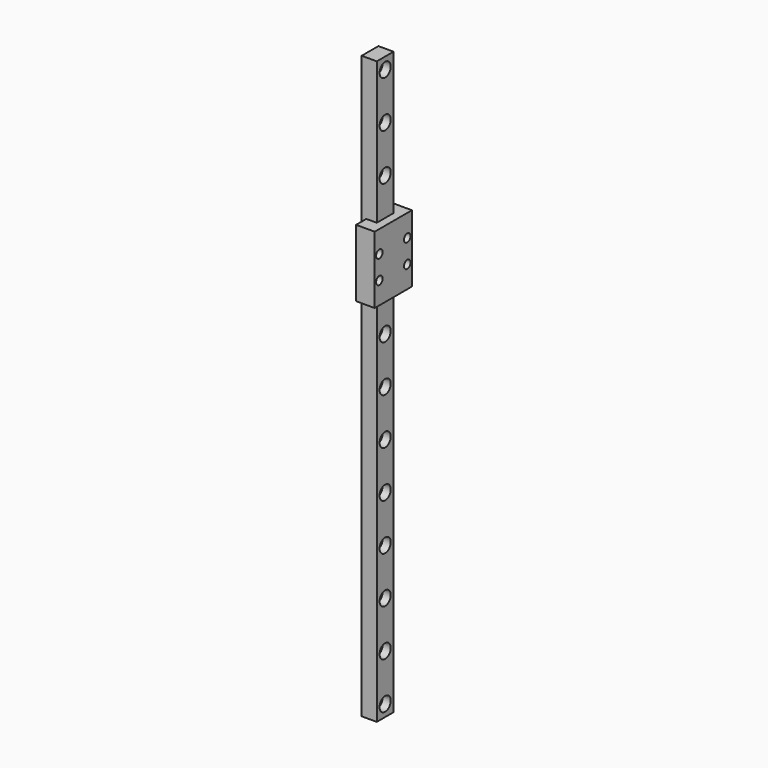
from build123d import *

# Parameters (mm, degrees)
SKETCH042_W             = 9
SKETCH042_H             = 250
PAD021_DEPTH            = 6.5
SKETCH039_R             = 1.75
POCKET017_DEPTH         = 6.5
LINEARPATTERN008_COUNT  = 13
LINEARPATTERN008_PITCH  = 20
SKETCH041_R             = 3
POCKET018_DEPTH         = 3.5
LINEARPATTERN009_COUNT  = 13
LINEARPATTERN009_PITCH  = 20
SKETCH040_W             = 20
SKETCH040_H             = 28.9
SKETCH040_R             = 1.75
PAD022_DEPTH            = 8
BODY009_ROLL_ANGLE      = 90
BODY009_PLACEMENT_ANGLE = 90


with BuildPart() as part:
    # Sketch042 → Pad021 (new body)
    with BuildSketch(Plane.XY):
        with Locations((0, 125)):
            Rectangle(SKETCH042_W, SKETCH042_H)
    extrude(amount=-PAD021_DEPTH)

    # Sketch039 → Pocket017 (cut)
    with BuildSketch(Plane.XY):
        with Locations((0, 5)):
            Circle(SKETCH039_R)
    pocket017 = extrude(amount=-POCKET017_DEPTH, mode=Mode.SUBTRACT)

    # LinearPattern008: Pocket017 ×13
    with Locations(*[(0, i * LINEARPATTERN008_PITCH, 0) for i in range(1, LINEARPATTERN008_COUNT)]):
        add(pocket017, mode=Mode.SUBTRACT)

    # Sketch041 → Pocket018 (cut)
    with BuildSketch(Plane.XY):
        with Locations((0, 5)):
            Circle(SKETCH041_R)
    pocket018 = extrude(amount=-POCKET018_DEPTH, mode=Mode.SUBTRACT)

    # LinearPattern009: Pocket018 ×13
    with Locations(*[(0, i * LINEARPATTERN009_PITCH, 0) for i in range(1, LINEARPATTERN009_COUNT)]):
        add(pocket018, mode=Mode.SUBTRACT)

    # Sketch040 → Pad022 (join)
    with BuildSketch(Plane.XY.offset(-4.5)):
        with Locations((0, 174.45)):
            Rectangle(SKETCH040_W, SKETCH040_H)
        with Locations((-7.5, 179.45)):
            Circle(SKETCH040_R, mode=Mode.SUBTRACT)
        with Locations((7.5, 179.45)):
            Circle(SKETCH040_R, mode=Mode.SUBTRACT)
        with Locations((7.5, 169.45)):
            Circle(SKETCH040_R, mode=Mode.SUBTRACT)
        with Locations((-7.5, 169.45)):
            Circle(SKETCH040_R, mode=Mode.SUBTRACT)
    extrude(amount=PAD022_DEPTH)


with BuildPart() as part_1:
    # Body009 roll: moved
    add(part.part.rotate(Axis((0, 0, 0), (1, 0, 0)), BODY009_ROLL_ANGLE))


with BuildPart() as part_2:
    # Body009 placement: moved
    add(part_1.part.moved(Location((-145, -20, -10.95))).rotate(Axis((-145, -20, -10.95), (0, 0, 1)), BODY009_PLACEMENT_ANGLE))


solid = part_2.part
